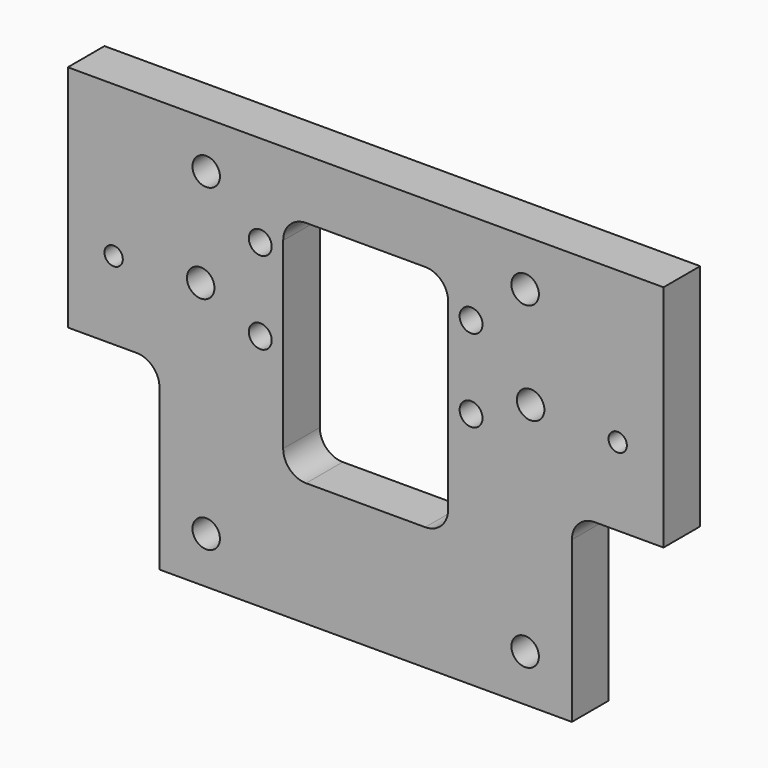
from build123d import *

# Parameters (mm, degrees)
F1_W     = 130
F1_H     = 90
F3_DEPTH = 10
F2_R     = 2.5
F4_DEPTH = 10.001
F0_R     = 3
F0_R_2   = 2
F5_DEPTH = 10.001
F6_R     = 3
F7_DEPTH = 10.001
F9_DEPTH = 10.001


with BuildPart() as f3:
    # F1 (on Front) → F3 (new body)
    with BuildSketch(Plane.XZ):
        with Locations((0, -13)):
            Rectangle(F1_W, F1_H)
    extrude(amount=F3_DEPTH)

    # F2 (on Front) → F4 (cut, through all)
    with BuildSketch(Plane.XZ):
        with Locations((23, -6)):
            Circle(F2_R)
        with Locations((23, 12)):
            Circle(F2_R)
        with Locations((-23, -6)):
            Circle(F2_R)
        with Locations((-23, 12)):
            Circle(F2_R)
    extrude(amount=F4_DEPTH, mode=Mode.SUBTRACT)

    # F0 (on Front) → F5 (cut, through all)
    with BuildSketch(Plane.XZ):
        with Locations((-36, 0)):
            Circle(F0_R)
        with Locations((36, 0)):
            Circle(F0_R)
        with Locations((-55, -1)):
            Circle(F0_R_2)
        with Locations((55, -1)):
            Circle(F0_R_2)
        with BuildLine():
            ThreePointArc((18, 14), (16.535534, 17.535534), (13, 19))
            Line((13, 19), (-13, 19))
            ThreePointArc((-13, 19), (-16.535534, 17.535534), (-18, 14))
            Line((-18, 14), (-18, -26))
            ThreePointArc((-18, -26), (-16.535534, -29.535534), (-13, -31))
            Line((-13, -31), (13, -31))
            ThreePointArc((13, -31), (16.535534, -29.535534), (18, -26))
            Line((18, -26), (18, 14))
        make_face()
    extrude(amount=F5_DEPTH, mode=Mode.SUBTRACT)

    # F6 (on Front) → F7 (cut, through all)
    with BuildSketch(Plane.XZ):
        with Locations((34.8, -47.8)):
            Circle(F6_R)
        with Locations((34.8, 21.8)):
            Circle(F6_R)
        with Locations((-34.8, -47.8)):
            Circle(F6_R)
        with Locations((-34.8, 21.8)):
            Circle(F6_R)
    extrude(amount=F7_DEPTH, mode=Mode.SUBTRACT)

    # F8 (on Front) → F9 (cut, through all)
    with BuildSketch(Plane.XZ):
        with BuildLine():
            Line((-65, -18), (-65, -58))
            Line((-65, -58), (-45, -58))
            Line((-45, -58), (-45, -23))
            ThreePointArc((-45, -23), (-46.464466, -19.464466), (-50, -18))
            Line((-50, -18), (-65, -18))
        make_face()
        with BuildLine():
            Line((45, -58), (65, -58))
            Line((65, -58), (65, -18))
            Line((65, -18), (50, -18))
            ThreePointArc((50, -18), (46.464466, -19.464466), (45, -23))
            Line((45, -23), (45, -58))
        make_face()
    extrude(amount=F9_DEPTH, mode=Mode.SUBTRACT)


solid = f3.part
